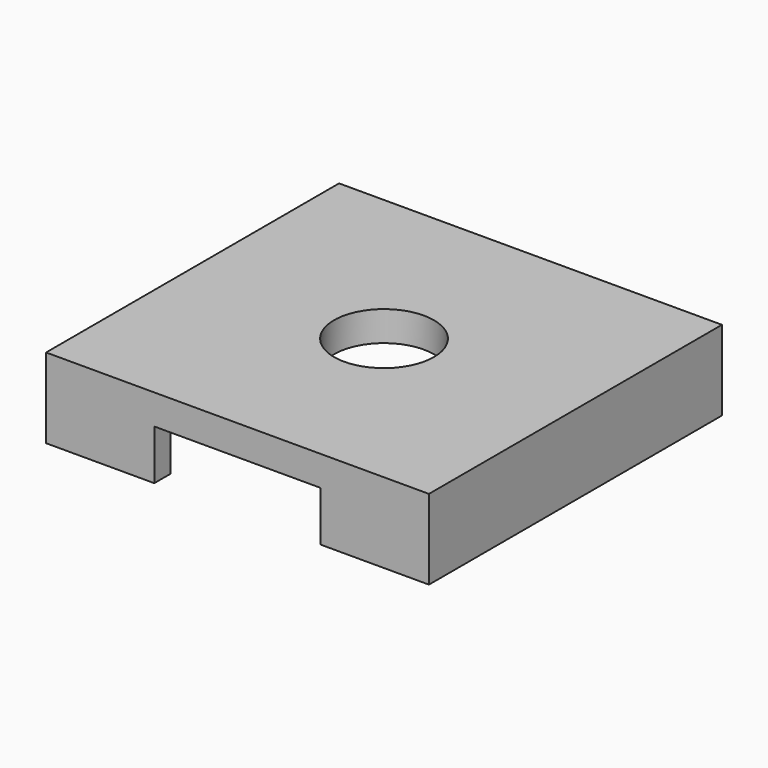
from build123d import *

# Parameters (mm, degrees)
F0_W     = 23
F0_H     = 22
F0_R     = 3
F1_DEPTH = 1.8
F3_DEPTH = 0.2
F4_DEPTH = 3


with BuildPart() as f1:
    # F0 (on Top) → F1 (new body)
    with BuildSketch(Plane.XY):
        Rectangle(F0_W, F0_H)
        Circle(F0_R, mode=Mode.SUBTRACT)
    extrude(amount=F1_DEPTH)

    # F2 (on face) → F3 (join)
    with BuildSketch(Plane(origin=(0, 0, 0), x_dir=(1, 0, 0), z_dir=(0, 0, -1))):
        with BuildLine():
            Line((-5, -9.797959), (-5, 9.797959))
            ThreePointArc((-5, 9.797959), (-11, 0), (-5, -9.797959))
        make_face()
        with BuildLine():
            ThreePointArc((5, -9.797959), (11, 0), (5, 9.797959))
            Line((5, 9.797959), (5, -9.797959))
        make_face()
    extrude(amount=F3_DEPTH)

    # F2 (on face) → F4 (join)
    with BuildSketch(Plane(origin=(0, 0, 0), x_dir=(1, 0, 0), z_dir=(0, 0, -1))):
        with BuildLine():
            Line((-5, 9.797959), (-5, 11))
            Line((-5, 11), (-11.5, 11))
            Line((-11.5, 11), (-11.5, -11))
            Line((-11.5, -11), (-5, -11))
            Line((-5, -11), (-5, -9.797959))
            ThreePointArc((-5, -9.797959), (-11, 0), (-5, 9.797959))
        make_face()
        with BuildLine():
            Line((11.5, 11), (5, 11))
            Line((5, 11), (5, 9.797959))
            ThreePointArc((5, 9.797959), (11, 0), (5, -9.797959))
            Line((5, -9.797959), (5, -11))
            Line((5, -11), (11.5, -11))
            Line((11.5, -11), (11.5, 11))
        make_face()
    extrude(amount=F4_DEPTH)


solid = f1.part
